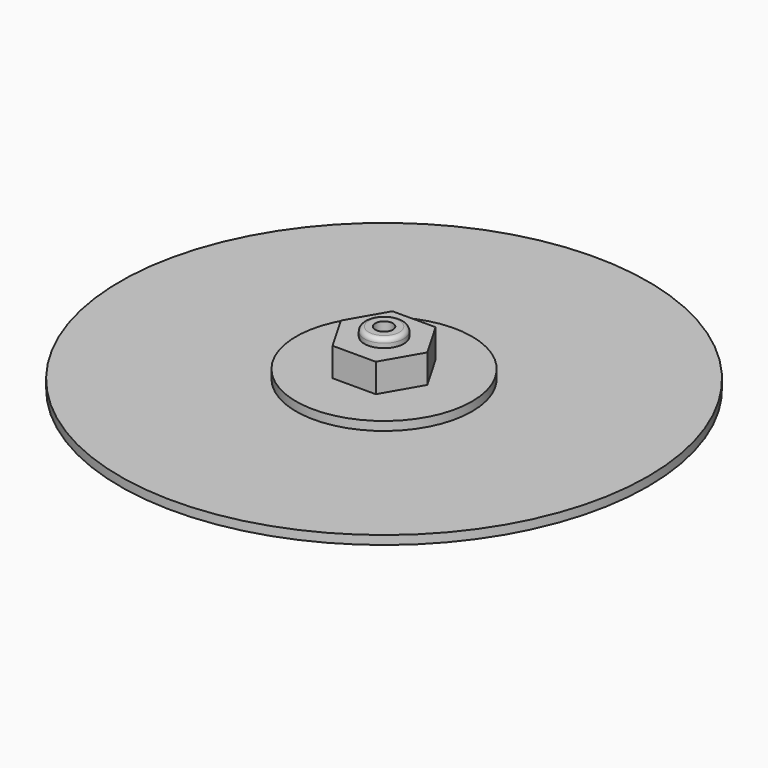
from build123d import *

# Parameters (mm, degrees)
SKETCH_R     = 60
PAD_DEPTH    = 2
SKETCH001_R  = 20
PAD001_DEPTH = 2
PAD002_DEPTH = 6.5
SKETCH003_R  = 4.5
PAD003_DEPTH = 2
FILLET_R     = 1
SKETCH004_R  = 2
POCKET_DEPTH = 12.501


with BuildPart() as part:
    # Sketch → Pad (new body)
    with BuildSketch(Plane.XY):
        Circle(SKETCH_R)
    extrude(amount=PAD_DEPTH)

    # Sketch001 (on Face3 of Pad) → Pad001 (join)
    with BuildSketch(Plane.XY.offset(2)):
        Circle(SKETCH001_R)
    extrude(amount=PAD001_DEPTH)

    # Sketch002 (on Face5 of Pad001) → Pad002 (join)
    with BuildSketch(Plane.XY.offset(4)):
        Polygon((4.907477, 8.5), (-4.907477, 8.5), (-9.814955, 0), (-4.907477, -8.5), (4.907477, -8.5), (9.814955, 0), align=None)
    extrude(amount=PAD002_DEPTH)

    # Sketch003 (on Face12 of Pad002) → Pad003 (join)
    with BuildSketch(Plane.XY.offset(10.5)):
        Circle(SKETCH003_R)
    extrude(amount=PAD003_DEPTH)

    # Fillet
    fillet_edges = [part.edges().sort_by_distance(p)[0] for p in [
        (-4.5, 0, 12.5),
    ]]
    fillet(fillet_edges, radius=FILLET_R)

    # Sketch004 (on Face4 of Fillet) → Pocket (cut, through all)
    with BuildSketch(Plane.XY.offset(12.5)):
        Circle(SKETCH004_R)
    extrude(amount=-POCKET_DEPTH, mode=Mode.SUBTRACT)


solid = part.part
